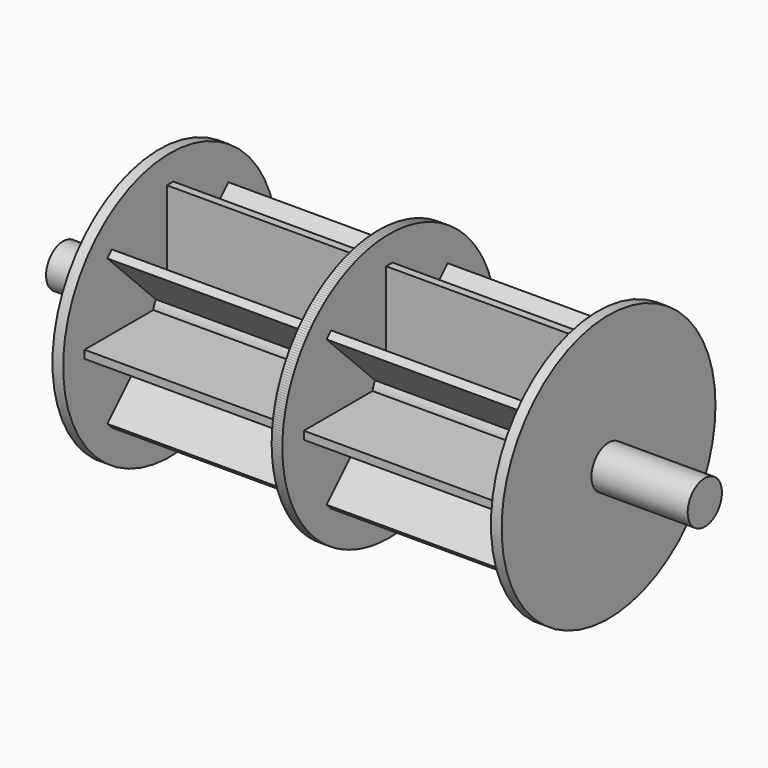
from build123d import *

# Parameters (mm, degrees)
F0_R      = 63.5
F1_DEPTH  = 2.54
F2_W      = 3.81
F2_H      = 50.8
F3_DEPTH  = 101.6
F5_COUNT  = 8
F6_R      = 63.5
F6_W      = 3.81
F6_H      = 50.8
F7_DEPTH  = 5.08
F9_R      = 10.16
F10_DEPTH = 152.4


with BuildPart() as f1:
    # F0 (on Right) → F1 (new body, symmetric)
    with BuildSketch(Plane.YZ):
        Circle(F0_R)
    extrude(amount=F1_DEPTH, both=True)

    # F2 (on Right) → F3 (join, symmetric)
    with BuildSketch(Plane.YZ):
        with Locations((0, 25.4)):
            Rectangle(F2_W, F2_H)
    extrude(amount=F3_DEPTH, both=True)


with BuildPart() as f5_1:
    # F5: instance of F1
    add(f1.part.rotate(Axis((0.7013864815, 0, 0), (1, 0, 0)), 1 * 360 / F5_COUNT))


with BuildPart() as f5_2:
    # F5: instance of F1
    add(f1.part.rotate(Axis((0.7013864815, 0, 0), (1, 0, 0)), 2 * 360 / F5_COUNT))


with BuildPart() as f5_3:
    # F5: instance of F1
    add(f1.part.rotate(Axis((0.7013864815, 0, 0), (1, 0, 0)), 3 * 360 / F5_COUNT))


with BuildPart() as f5_4:
    # F5: instance of F1
    add(f1.part.rotate(Axis((0.7013864815, 0, 0), (1, 0, 0)), 4 * 360 / F5_COUNT))


with BuildPart() as f5_5:
    # F5: instance of F1
    add(f1.part.rotate(Axis((0.7013864815, 0, 0), (1, 0, 0)), 5 * 360 / F5_COUNT))


with BuildPart() as f5_6:
    # F5: instance of F1
    add(f1.part.rotate(Axis((0.7013864815, 0, 0), (1, 0, 0)), 6 * 360 / F5_COUNT))


with BuildPart() as f5_7:
    # F5: instance of F1
    add(f1.part.rotate(Axis((0.7013864815, 0, 0), (1, 0, 0)), 7 * 360 / F5_COUNT))


with BuildPart() as f7:
    # F6 (on face) → F7 (new body)
    with BuildSketch(Plane.YZ.offset(101.6)):
        Circle(F6_R)
        with Locations((0, 25.4)):
            Rectangle(F6_W, F6_H, mode=Mode.SUBTRACT)
        with Locations((0, 25.4)):
            Rectangle(F6_W, F6_H)
    extrude(amount=F7_DEPTH)


with BuildPart() as f8_1:
    # F8: instance of F7
    add(f7.part.mirror(Plane.YZ))


with BuildPart() as f10:
    # F9 (on Right) → F10 (new body, symmetric)
    with BuildSketch(Plane.YZ):
        Circle(F9_R)
    extrude(amount=F10_DEPTH, both=True)


solid = Compound([f1.part, f5_1.part, f5_2.part, f5_3.part, f5_4.part, f5_5.part, f5_6.part, f5_7.part, f7.part, f8_1.part, f10.part])
